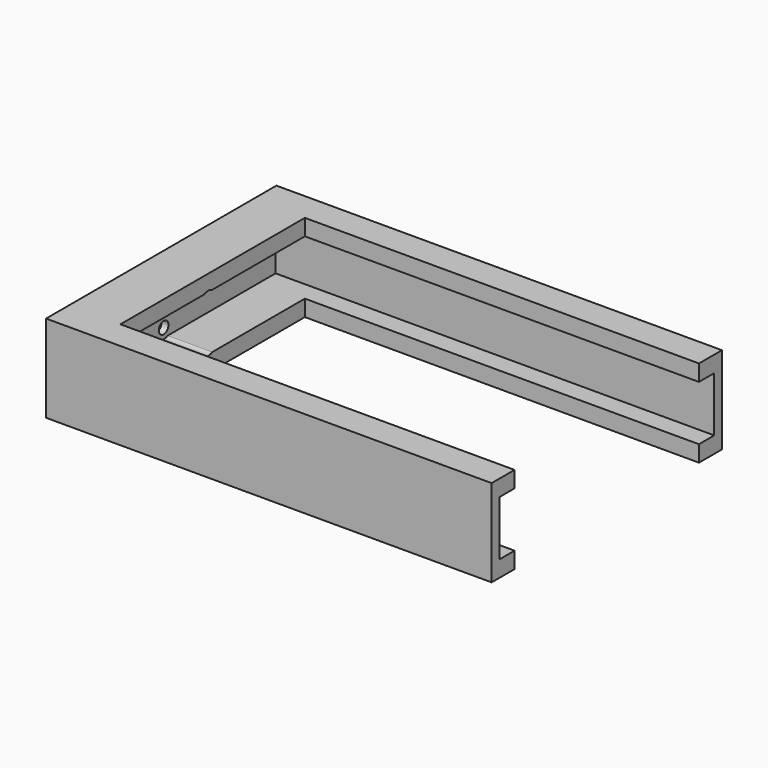
from build123d import *

# Parameters (mm, degrees)
F0_W      = 130
F0_H      = 84
F1_DEPTH  = 25.5
F2_W      = 78.4
F2_H      = 16
F3_DEPTH  = 128
F4_W      = 115
F4_H      = 67.26
F5_DEPTH  = 25.501
F6_R      = 1.75
F7_DEPTH  = 130.001
F9_R      = 3
F10_DEPTH = 25
F11_R     = 3
F12_DEPTH = 25


with BuildPart() as f1:
    # F0 (on Top) → F1 (new body)
    with BuildSketch(Plane.XY):
        with Locations((-20.303967, 1.606347)):
            Rectangle(F0_W, F0_H)
    extrude(amount=F1_DEPTH)

    # F2 (on face) → F3 (cut)
    with BuildSketch(Plane.YZ.offset(44.696033)):
        with Locations((1.606347, 12.75)):
            Rectangle(F2_W, F2_H)
    extrude(amount=-F3_DEPTH, mode=Mode.SUBTRACT)

    # F4 (on face) → F5 (cut, through all)
    with BuildSketch(Plane.XY.offset(25.5)):
        with Locations((-12.803967, 1.606347)):
            Rectangle(F4_W, F4_H)
    extrude(amount=-F5_DEPTH, mode=Mode.SUBTRACT)

    # F6 (on face) → F7 (cut, through all)
    with BuildSketch(Plane(origin=(-85.303967, 0, 0), x_dir=(0, -1, 0), z_dir=(-1, 0, 0))):
        with Locations((0, 18.112885)):
            Circle(F6_R)
        with Locations((0, 7.387115)):
            Circle(F6_R)
        with Locations((-6.850508, 12.75)):
            Circle(F6_R)
        with Locations((6.850508, 12.75)):
            Circle(F6_R)
    extrude(amount=-F7_DEPTH, mode=Mode.SUBTRACT)

    # F9 (on face) → F10 (cut)
    with BuildSketch(Plane.YZ.offset(-83.303967)):
        with Locations((0, 18.112885)):
            Circle(F9_R)
    extrude(amount=F10_DEPTH, mode=Mode.SUBTRACT)

    # F11 (on face) → F12 (cut)
    with BuildSketch(Plane.YZ.offset(-83.303967)):
        with Locations((0, 7.387115)):
            Circle(F11_R)
    extrude(amount=F12_DEPTH, mode=Mode.SUBTRACT)


solid = f1.part
